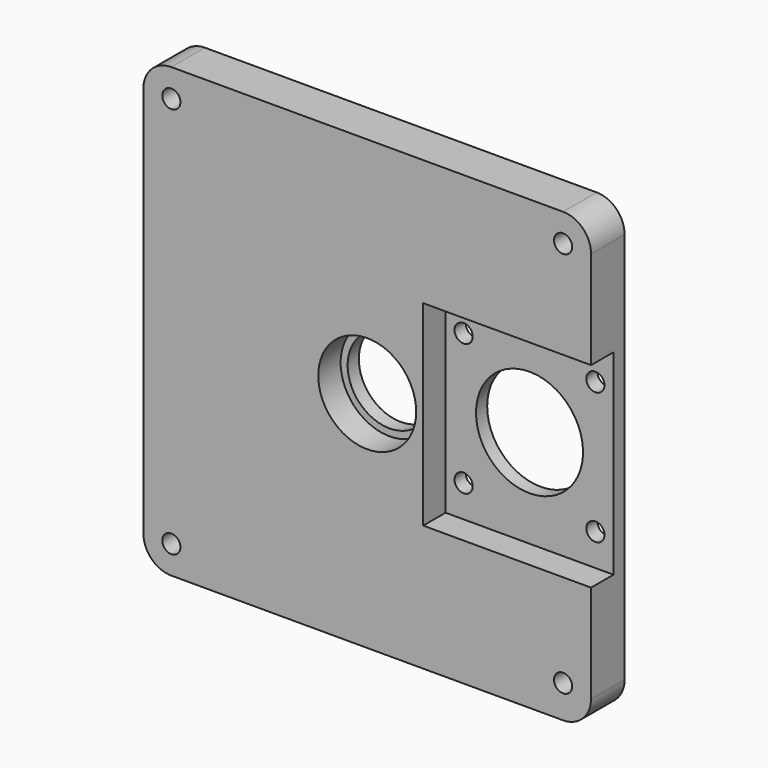
from build123d import *

# Parameters (mm, degrees)
F0_W      = 160
F0_H      = 160
F1_DEPTH  = 15
F2_R      = 15
F3_DEPTH  = 25
F4_R      = 17.5
F5_DEPTH  = 10
F6_R      = 10
F7_W      = 60
F7_H      = 70
F8_DEPTH  = 10
F9_R      = 19.125
F10_DEPTH = 25
F11_R     = 3.25
F12_DEPTH = 25
F13_R     = 3.25
F14_DEPTH = 25


with BuildPart() as f1:
    # F0 (on Front) → F1 (new body)
    with BuildSketch(Plane.XZ):
        Rectangle(F0_W, F0_H)
    extrude(amount=F1_DEPTH)

    # F2 (on face) → F3 (cut)
    with BuildSketch(Plane.XZ.offset(15)):
        Circle(F2_R)
    extrude(amount=-F3_DEPTH, mode=Mode.SUBTRACT)

    # F4 (on face) → F5 (cut)
    with BuildSketch(Plane.XZ.offset(15)):
        Circle(F4_R)
    extrude(amount=-F5_DEPTH, mode=Mode.SUBTRACT)

    # F6
    f6_edges = [f1.edges().sort_by_distance(p)[0] for p in [
        (80, -7.5, 80),
        (80, -7.5, -80),
        (-80, -7.5, -80),
        (-80, -7.5, 80),
    ]]
    fillet(f6_edges, radius=F6_R)

    # F7 (on face) → F8 (cut)
    with BuildSketch(Plane.XZ.offset(15)):
        with Locations((50, 0)):
            Rectangle(F7_W, F7_H)
    extrude(amount=-F8_DEPTH, mode=Mode.SUBTRACT)

    # F9 (on face) → F10 (cut)
    with BuildSketch(Plane(origin=(0, 0, 0), x_dir=(-1, 0, 0), z_dir=(0, 1, 0))):
        with Locations((-50, 0)):
            Circle(F9_R)
    extrude(amount=-F10_DEPTH, mode=Mode.SUBTRACT)

    # F11 (on face) → F12 (cut)
    with BuildSketch(Plane.XZ.offset(5)):
        with Locations((26.45, 23.55)):
            Circle(F11_R)
        with Locations((26.45, -23.55)):
            Circle(F11_R)
        with Locations((73.55, -23.55)):
            Circle(F11_R)
        with Locations((73.55, 23.55)):
            Circle(F11_R)
    extrude(amount=-F12_DEPTH, mode=Mode.SUBTRACT)

    # F13 (on face) → F14 (cut)
    with BuildSketch(Plane.XZ.offset(15)):
        with Locations((70, 70)):
            Circle(F13_R)
        with Locations((70, -68.258837)):
            Circle(F13_R)
        with Locations((-70, -70)):
            Circle(F13_R)
        with Locations((-70, 70)):
            Circle(F13_R)
    extrude(amount=-F14_DEPTH, mode=Mode.SUBTRACT)


solid = f1.part
